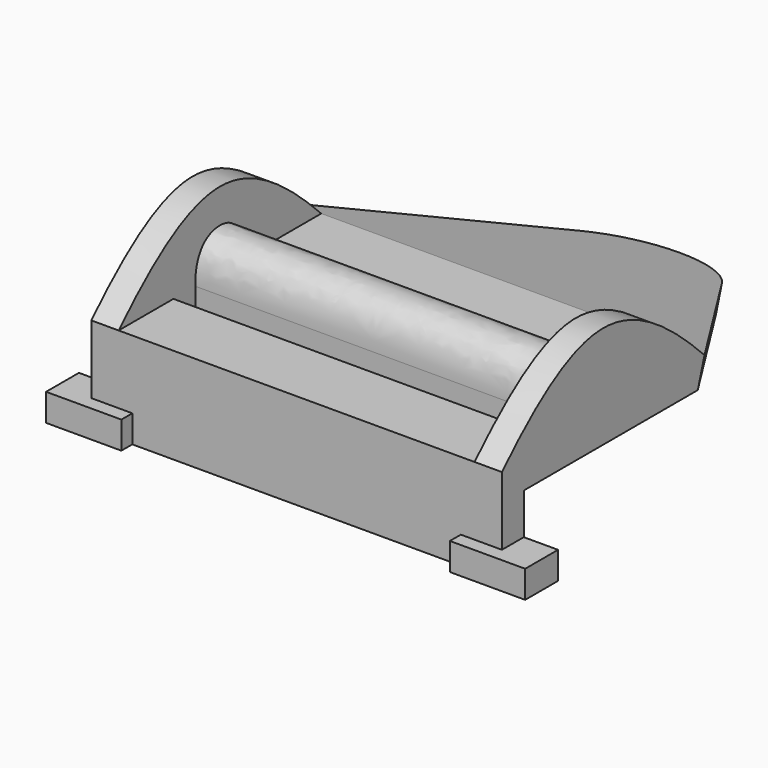
from build123d import *

# Parameters (mm, degrees)
F0_W      = 60
F0_H      = 37
F1_DEPTH  = 4
F3_DEPTH  = 4
F6_DEPTH  = 60
F8_W      = 52
F8_H      = 5
F7_W      = 52
F7_H      = 4
F9_DEPTH  = 25
F10_W     = 60
F10_H     = 4
F11_DEPTH = 10
F12_W     = 11
F12_H     = 6
F13_DEPTH = 4
F15_DEPTH = 60
F17_DEPTH = 25


with BuildPart() as f1:
    # F0 (on Top) → F1 (new body)
    with BuildSketch(Plane.XY):
        Rectangle(F0_W, F0_H)
    extrude(amount=-F1_DEPTH)

    # F4: F3 across plane


with BuildPart() as f3:
    # F2 (on face) → F3 (new body)
    with BuildSketch(Plane.YZ.offset(30)):
        with BuildLine():
            add(Edge.make_bspline(
                [(-18.5, 0), (-12.3333333333, 6.2487446703), (0, 15.7512553297), (12.3333333333, 6.2487446703), (18.5, 0)],
                knots=[0, 0, 0, 0, 0.5, 1, 1, 1, 1], degree=3))
            Line((-18.5, 0), (18.5, 0))
        make_face()
    extrude(amount=-F3_DEPTH)


with BuildPart() as f1_1:
    add(f1.part)
    add(f3.part.mirror(Plane.YZ))


    add(f3.part)  # F6 merges F3
    # F5 (on face) → F6 (join, through all)
    with BuildSketch(Plane.YZ.offset(30)):
        with BuildLine():
            add(Edge.make_bspline(
                [(-4.5, 0), (-4.6072629509, 4.5), (0.1894585205, 7.5), (4.22834591, 4.5), (4.5, 0)],
                knots=[0, 0, 0, 0, 0.5, 1, 1, 1, 1], degree=3))
            Line((-4.5, 0), (4.5, 0))
        make_face()
    extrude(amount=-F6_DEPTH)

    # F8 (on face) + F7 (on face) → F9 (cut)
    with BuildSketch(Plane.XY):
        with Locations((0, 7)):
            Rectangle(F8_W, F8_H)
    with BuildSketch(Plane.XY):
        with Locations((0, -6.5)):
            Rectangle(F7_W, F7_H)
    extrude(amount=-F9_DEPTH, mode=Mode.SUBTRACT)

    # F10 (on face) → F11 (join)
    with BuildSketch(Plane(origin=(0, 0, -4), x_dir=(1, 0, 0), z_dir=(0, 0, -1))):
        with Locations((0, 16.5)):
            Rectangle(F10_W, F10_H)
    extrude(amount=F11_DEPTH)

    # F12 (on face) → F13 (join)
    with BuildSketch(Plane(origin=(0, 0, -14), x_dir=(1, 0, 0), z_dir=(0, 0, -1))):
        with Locations((29.5, 17.5)):
            Rectangle(F12_W, F12_H)
        with Locations((-29.5, 17.5)):
            Rectangle(F12_W, F12_H)
    extrude(amount=-F13_DEPTH)

    # F14 (on face) → F15 (join, through all)
    with BuildSketch(Plane.YZ.offset(30)):
        Polygon((18.5, 0), (18.5, -4), (51.5, -14), (51.5, -10), align=None)
    extrude(amount=-F15_DEPTH)

    # F16 (on face) → F17 (cut)
    with BuildSketch(Plane(origin=(0, 1.5559293524, 5.1345668629), x_dir=(1, 0, 0), z_dir=(0, 0.2900073953, 0.9570244044))):
        with BuildLine():
            ThreePointArc((-10.3471690042, 46.7001105844), (0, 52.1868307812), (10.3471690042, 46.7001105844))
            Line((10.3471690042, 46.7001105844), (30, 17.704951482))
            Line((30, 17.704951482), (30, 52.1868307812))
            Line((30, 52.1868307812), (30, 58.4787502885))
            Line((30, 58.4787502885), (-30, 58.4787502885))
            Line((-30, 58.4787502885), (-30, 52.1868307812))
            Line((-30, 52.1868307812), (-30, 17.704951482))
            Line((-30, 17.704951482), (-10.3471690042, 46.7001105844))
        make_face()
    extrude(amount=-F17_DEPTH, mode=Mode.SUBTRACT)


solid = f1_1.part
